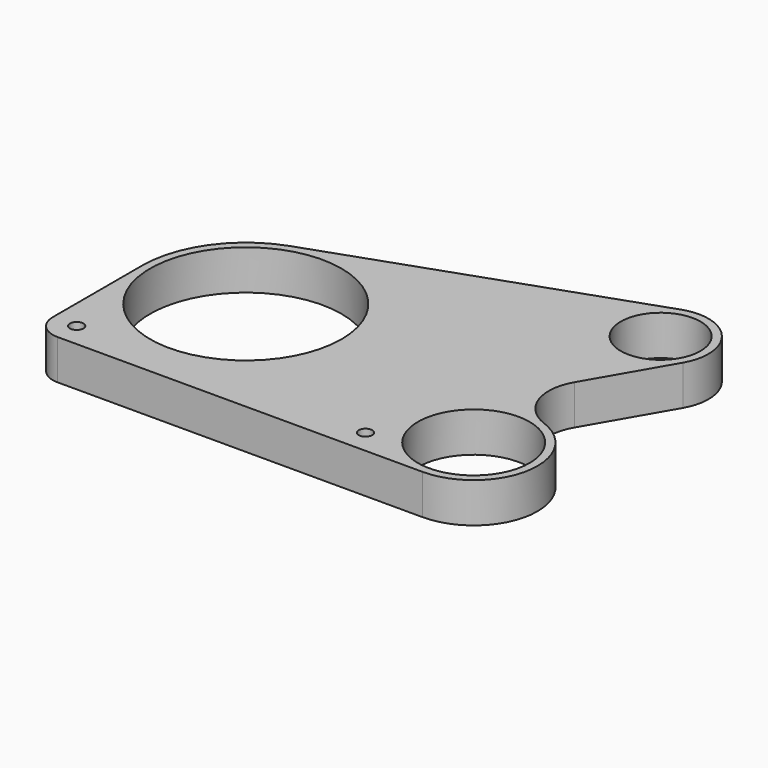
from build123d import *

# Parameters (mm, degrees)
F0_R     = 4.25
F0_R_2   = 60
F0_R_3   = 35
F0_R_4   = 25
F1_DEPTH = 25


with BuildPart() as f1:
    # F0 (on Top) → F1 (new body)
    with BuildSketch(Plane.XY):
        with BuildLine():
            Line((170.1002661172, 128.3195209891), (-21.4494234128, 61.358962143))
            ThreePointArc((-21.4494234128, 61.358962143), (-53.005719134, 37.621718981), (-65, 0))
            Line((-65, 0), (-65, -70))
            ThreePointArc((-65, -70), (-60.6066017178, -80.6066017178), (-50, -85))
            Line((-50, -85), (178.8461935881, -85))
            ThreePointArc((178.8461935881, -85), (218.2051095537, -52.1327227633), (192.8830053804, -7.5437867009))
            ThreePointArc((192.8830053804, -7.5437867009), (175.1714773697, 10.4216191197), (177.4298521111, 35.5483732734))
            Line((177.4298521111, 35.5483732734), (205.9807621135, 85))
            ThreePointArc((205.9807621135, 85), (203.1040059713, 119.1364810788), (170.1002661172, 128.3195209891))
        make_face()
        with Locations((-50, -70)):
            Circle(F0_R, mode=Mode.SUBTRACT)
        Circle(F0_R_2, mode=Mode.SUBTRACT)
        with BuildLine():
            ThreePointArc((142.0484575751, 113.2166723334), (148.454260007, 111.989449187), (150.5699177395, 105.8198159883))
            ThreePointArc((150.5699177395, 105.8198159883), (156.8959940287, 80.8635189212), (180.2378114363, 70.0009425861))
            ThreePointArc((180.2378114363, 70.0009425861), (185.9055766015, 66.7734327906), (185.9185023721, 60.2511468131))
            Line((185.9185023721, 60.2511468131), (173.0997250922, 38.0483732734))
            ThreePointArc((173.0997250922, 38.0483732734), (168.4108285272, 20.6708524024), (172.9779890769, 3.2609406527))
            ThreePointArc((172.9779890769, 3.2609406527), (173.308231113, -2.4923159625), (168.936535306, -6.2469527297))
            ThreePointArc((168.936535306, -6.2469527297), (146.3376616096, -21.693448376), (138.9630072526, -48.0547418421))
            ThreePointArc((138.9630072526, -48.0547418421), (137.0952919747, -53.1301591241), (132.033946144, -55.0356772498))
            ThreePointArc((132.033946144, -55.0356772498), (119.9040890666, -59.9064000199), (116.2000906263, -72.4418604651))
            ThreePointArc((116.2000906263, -72.4418604651), (114.7430001002, -77.7054781549), (109.7867965644, -80))
            Line((109.7867965644, -80), (-28.7867965644, -80))
            ThreePointArc((-28.7867965644, -80), (-33.7430001002, -77.7054781549), (-35.2000906263, -72.4418604651))
            ThreePointArc((-35.2000906263, -72.4418604651), (-35.0055561406, -69.5917680209), (-35.3548781712, -66.7564823694))
            ThreePointArc((-35.3548781712, -66.7564823694), (-33.1235266853, -60.3192723052), (-26.3715079201, -59.4099618753))
            ThreePointArc((-26.3715079201, -59.4099618753), (59.782037297, -25.516818309), (24.6568807826, 60.1418176486))
            ThreePointArc((24.6568807826, 60.1418176486), (20.6248325672, 66.3275309229), (24.9776265196, 72.2918956277))
            Line((24.9776265196, 72.2918956277), (142.0484575751, 113.2166723334))
        make_face(mode=Mode.SUBTRACT)
        with Locations((131, -70)):
            Circle(F0_R, mode=Mode.SUBTRACT)
        with Locations((178.8461935881, -45)):
            Circle(F0_R_3, mode=Mode.SUBTRACT)
        with Locations((180, 100)):
            Circle(F0_R_4, mode=Mode.SUBTRACT)
        with BuildLine():
            ThreePointArc((180.2378114363, 70.0009425861), (156.8959940287, 80.8635189212), (150.5699177395, 105.8198159883))
            ThreePointArc((150.5699177395, 105.8198159883), (148.454260007, 111.989449187), (142.0484575751, 113.2166723334))
            Line((142.0484575751, 113.2166723334), (24.9776265196, 72.2918956277))
            ThreePointArc((24.9776265196, 72.2918956277), (20.6248325672, 66.3275309229), (24.6568807826, 60.1418176486))
            ThreePointArc((24.6568807826, 60.1418176486), (59.782037297, -25.516818309), (-26.3715079201, -59.4099618753))
            ThreePointArc((-26.3715079201, -59.4099618753), (-33.1235266853, -60.3192723052), (-35.3548781712, -66.7564823694))
            ThreePointArc((-35.3548781712, -66.7564823694), (-35.0055561406, -69.5917680209), (-35.2000906263, -72.4418604651))
            ThreePointArc((-35.2000906263, -72.4418604651), (-33.7430001002, -77.7054781549), (-28.7867965644, -80))
            Line((-28.7867965644, -80), (109.7867965644, -80))
            ThreePointArc((109.7867965644, -80), (114.7430001002, -77.7054781549), (116.2000906263, -72.4418604651))
            ThreePointArc((116.2000906263, -72.4418604651), (119.9040890666, -59.9064000199), (132.033946144, -55.0356772498))
            ThreePointArc((132.033946144, -55.0356772498), (137.0952919747, -53.1301591241), (138.9630072526, -48.0547418421))
            ThreePointArc((138.9630072526, -48.0547418421), (146.3376616096, -21.693448376), (168.936535306, -6.2469527297))
            ThreePointArc((168.936535306, -6.2469527297), (173.308231113, -2.4923159625), (172.9779890769, 3.2609406527))
            ThreePointArc((172.9779890769, 3.2609406527), (168.4108285272, 20.6708524024), (173.0997250922, 38.0483732734))
            Line((173.0997250922, 38.0483732734), (185.9185023721, 60.2511468131))
            ThreePointArc((185.9185023721, 60.2511468131), (185.9055766015, 66.7734327906), (180.2378114363, 70.0009425861))
        make_face()
    extrude(amount=F1_DEPTH)


solid = f1.part
